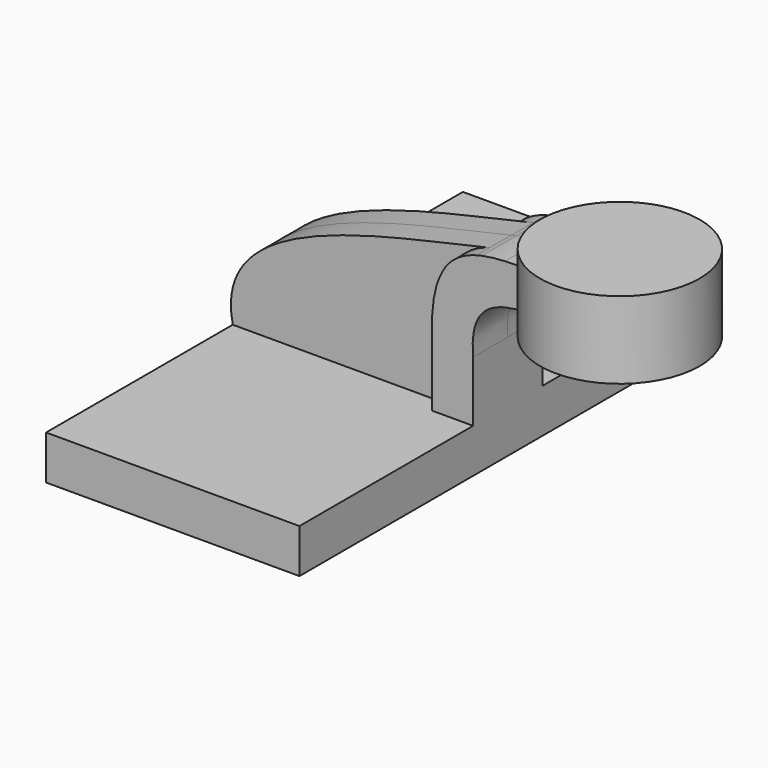
from build123d import *

# Parameters (mm, degrees)
F1_DEPTH = 7.9375
F2_DEPTH = 76.2
F0_W     = 12.082048
F0_H     = 17.720336
F3_DEPTH = 12.7


with BuildPart() as f1:
    # F0 (on Front) → F1 (new body, symmetric)
    with BuildSketch(Plane.XZ):
        with BuildLine():
            add(Edge.make_bspline(
                [(-78.667552, -13.961477), (-84.888583, 15.069991), (-37.055626, 22.329717), (-3.541488, 30.286499)],
                knots=[0, 0, 0, 0, 87.547231, 87.547231, 87.547231, 87.547231], degree=3))
            Line((-78.667552, -13.961477), (-16.646377, -13.961477))
            Line((-16.646377, -13.961477), (-16.646377, 3.758859))
            add(Edge.make_bspline(
                [(-16.646377, 3.758859), (-17.220191, 21.260194), (-12.428721, 27.877668), (-3.541488, 30.286499)],
                knots=[0, 0, 0, 0, 28.14689, 28.14689, 28.14689, 28.14689], degree=3))
        make_face()
    extrude(amount=F1_DEPTH, both=True)

    # F0 (on Front) → F2 (join, symmetric)
    with BuildSketch(Plane.XZ):
        Polygon((-78.667552, -26.848992), (-4.564329, -26.848992), (-4.564329, -13.961477), (-16.646377, -13.961477), (-78.667552, -13.961477), align=None)
    extrude(amount=F2_DEPTH, both=True)

    # F0 (on Front) → F3 (join, symmetric)
    with BuildSketch(Plane.XZ):
        with Locations((-10.605353, -5.101309)):
            Rectangle(F0_W, F0_H)
        with BuildLine():
            Line((-16.646377, 3.758859), (-4.564329, 3.758859))
            add(Edge.make_bspline(
                [(-4.564329, 3.758859), (-5.431204, 13.727929), (-1.866506, 17.943729), (4.832817, 19.585869)],
                knots=[0, 0, 0, 0, 19.706993, 19.706993, 19.706993, 19.706993], degree=3))
            Line((4.832817, 19.585869), (4.832817, 31.465202))
            add(Edge.make_bspline(
                [(-2.020811, 30.650517), (0.067241, 31.089042), (2.356514, 31.335734), (4.832817, 31.465202)],
                knots=[29.71238, 29.71238, 29.71238, 29.71238, 36.00564, 36.00564, 36.00564, 36.00564], degree=3))
            add(Edge.make_bspline(
                [(-3.541488, 30.286499), (-3.031195, 30.40765), (-2.524222, 30.528963), (-2.020811, 30.650517)],
                knots=[87.547231, 87.547231, 87.547231, 87.547231, 88.880242, 88.880242, 88.880242, 88.880242], degree=3))
            add(Edge.make_bspline(
                [(-16.646377, 3.758859), (-17.220191, 21.260194), (-12.428721, 27.877668), (-3.541488, 30.286499)],
                knots=[0, 0, 0, 0, 28.14689, 28.14689, 28.14689, 28.14689], degree=3))
        make_face()
        with BuildLine():
            Line((4.832817, 31.465202), (4.832817, 19.585869))
            add(Edge.make_bspline(
                [(4.832817, 19.585869), (10.583037, 20.995365), (18.642622, 20.508776), (28.191444, 20.136743)],
                knots=[19.706993, 19.706993, 19.706993, 19.706993, 36.622066, 36.622066, 36.622066, 36.622066], degree=3))
            Line((28.191444, 20.136743), (28.191444, 31.413321))
            add(Edge.make_bspline(
                [(4.832817, 31.465202), (11.393993, 31.80824), (19.268182, 31.328338), (28.191444, 31.413321)],
                knots=[36.00564, 36.00564, 36.00564, 36.00564, 52.680162, 52.680162, 52.680162, 52.680162], degree=3))
        make_face()
    extrude(amount=F3_DEPTH, both=True)


with BuildPart() as f4:
    # F0 (on Front) → F4 (revolve)
    with BuildSketch(Plane.XZ):
        Polygon((28.191444, 31.413321), (28.191444, 20.136743), (28.191444, 14.498454), (51.55007, 14.498454), (51.55007, 37.051611), (28.191444, 37.051611), align=None)
    revolve(axis=Axis((28.191444, 0, 25.775032), (0, 0, -1)))


solid = Compound([f1.part, f4.part])
